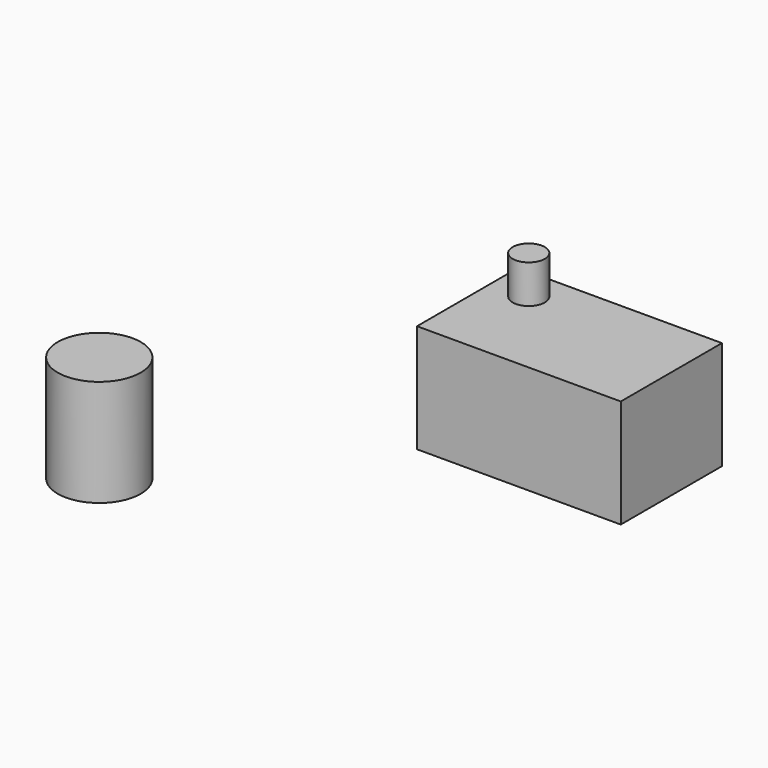
from build123d import *

# Parameters (mm, degrees)
F0_W     = 47.756113
F0_H     = 29.631158
F1_DEPTH = 25.4
F2_R     = 9.732717
F3_DEPTH = 25
F5_R     = 3.767377
F6_DEPTH = 9


with BuildPart() as f1:
    # F0 (on Top) → F1 (new body)
    with BuildSketch(Plane.XY):
        with Locations((-111.711125, -28.975875)):
            Rectangle(F0_W, F0_H)
    extrude(amount=F1_DEPTH)

    # F5 (on face) → F6 (join)
    with BuildSketch(Plane.XY.offset(25.4)):
        with Locations((-126.96442, -21.840308)):
            Circle(F5_R)
    extrude(amount=F6_DEPTH)


with BuildPart() as f3:
    # F2 (on face) → F3 (new body)
    with BuildSketch(Plane.XY.offset(25.4)):
        with Locations((-143.296048, -127.249405)):
            Circle(F2_R)
    extrude(amount=F3_DEPTH)


solid = Compound([f1.part, f3.part])
